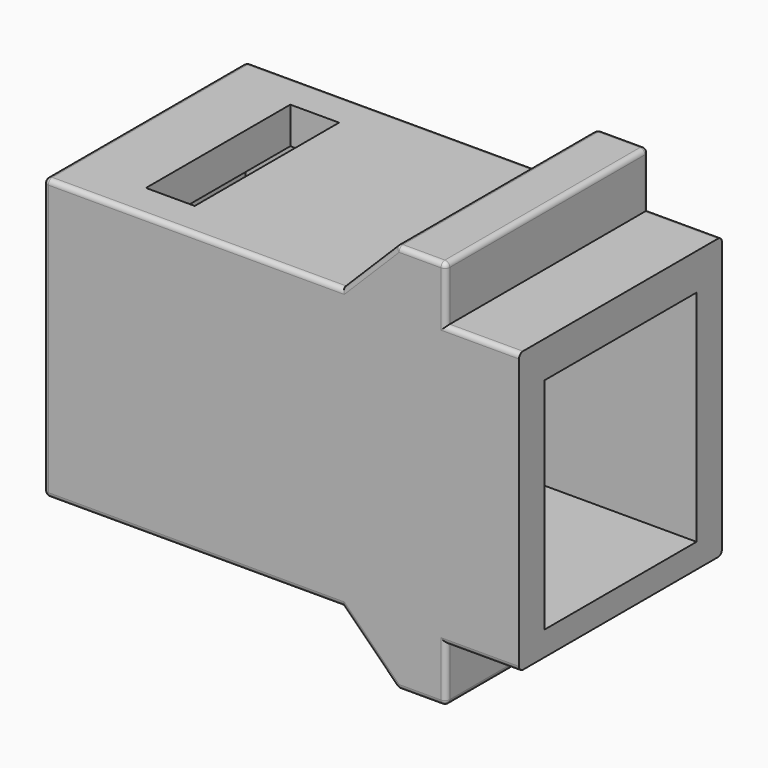
from build123d import *

# Parameters (mm, degrees)
F0_W     = 2
F0_H     = 1.5
F1_DEPTH = 5.2
F2_DEPTH = 3.7
F3_DEPTH = 3.9
F4_R     = 0.2


with BuildPart() as f1:
    # F0 (on Front) → F1 (new body, symmetric)
    with BuildSketch(Plane.XZ):
        Polygon((-4.75, 4.25), (9.75, 4.25), (9.75, 5.75), (6.75, 5.75), (2.5, 5.75), (-4.75, 5.75), align=None)
        Polygon((2.5, 5.75), (6.75, 5.75), (6.75, 8), (4.75, 8), align=None)
        Polygon((6.75, -5.75), (9.75, -5.75), (9.75, -4.75), (-8.75, -4.75), (-8.75, 4.25), (-6.75, 4.25), (-6.75, 5.75), (-9.75, 5.75), (-9.75, -5.75), (2.5, -5.75), align=None)
        Polygon((6.75, -8), (6.75, -5.75), (2.5, -5.75), (4.75, -8), align=None)
        Polygon((-8.75, -4.75), (9.75, -4.75), (9.75, 4.25), (-4.75, 4.25), (-6.75, 4.25), (-8.75, 4.25), align=None)
        with Locations((-5.75, 5)):
            Rectangle(F0_W, F0_H)
    extrude(amount=F1_DEPTH, both=True)

    # F0 (on Front) → F2 (cut, symmetric)
    with BuildSketch(Plane.XZ):
        with Locations((-5.75, 5)):
            Rectangle(F0_W, F0_H)
    extrude(amount=F2_DEPTH, both=True, mode=Mode.SUBTRACT)

    # F0 (on Front) → F3 (cut, symmetric)
    with BuildSketch(Plane.XZ):
        Polygon((-8.75, -4.75), (9.75, -4.75), (9.75, 4.25), (-4.75, 4.25), (-6.75, 4.25), (-8.75, 4.25), align=None)
    extrude(amount=F3_DEPTH, both=True, mode=Mode.SUBTRACT)

    # F4
    f4_edges = [f1.edges().sort_by_distance(p)[0] for p in [
        (-3.625, -5.2, 5.75),
        (3.625, -5.2, 6.875),
        (6.75, 0, 8),
        (4.75, 0, 8),
        (5.75, -5.2, 8),
        (6.75, -5.2, 6.875),
        (8.25, -5.2, 5.75),
        (8.25, 5.2, 5.75),
        (-3.625, 5.2, 5.75),
        (3.625, 5.2, 6.875),
        (5.75, 5.2, 8),
        (-9.75, 0, 5.75),
        (-9.75, -5.2, 0),
        (-3.625, -5.2, -5.75),
        (5.75, -5.2, -8),
        (8.25, -5.2, -5.75),
        (6.75, 0, -8),
        (4.75, 0, -8),
        (3.625, 5.2, -6.875),
        (3.625, -5.2, -6.875),
        (5.75, 5.2, -8),
        (-3.625, 5.2, -5.75),
        (8.25, 5.2, -5.75),
        (6.75, 5.2, -6.875),
        (-9.75, 5.2, 0),
        (-9.75, 0, -5.75),
        (6.75, 5.2, 6.875),
        (6.75, -5.2, -6.875),
    ]]
    fillet(f4_edges, radius=F4_R)


solid = f1.part
